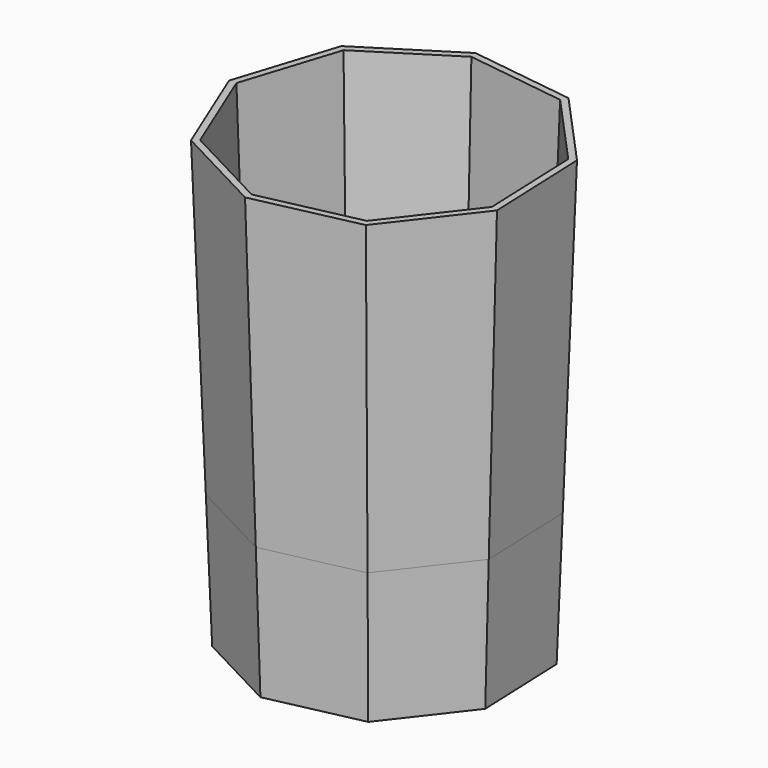
from build123d import *

# Parameters (mm, degrees)
F1_DEPTH = 70
F1_TAPER = -2
F2_T     = -1.5
F3_R     = 14
F4_DEPTH = 1.5
F5_DEPTH = 30
F5_TAPER = 2
F6_T     = -1.5
F8_D     = 4.2
F8_DEPTH = 17.25
F8_TIP   = 1.2618073


with BuildPart() as f1:
    # F0 (on Top) → F1 (new body)
    with BuildSketch(Plane.XY):
        Polygon((17.0480676249, -26.9924116845), (30.4099652563, -9.7191003389), (29.5427021752, 12.101886071), (14.8520804157, 28.2602654909), (-6.7879948327, 31.1953526096), (-25.2518918588, 19.5337875446), (-31.9001480406, -1.2678538064), (-23.6219704236, -21.4762522707), (-4.2908103164, -31.6356736157), align=None)
    extrude(amount=F1_DEPTH, taper=F1_TAPER)

    # F2
    f2_openings = [f1.faces().sort_by_distance(p)[0] for p in [
        (0, 0, 70),
    ]]
    offset(amount=F2_T, openings=f2_openings)

    # F3 (on face) → F4 (cut, through all)
    with BuildSketch(Plane(origin=(0, 0, 0), x_dir=(1, 0, 0), z_dir=(0, 0, -1))):
        Circle(F3_R)
    extrude(amount=-F4_DEPTH, mode=Mode.SUBTRACT)


with BuildPart() as f5:
    # F0 (on Top) → F5 (new body)
    with BuildSketch(Plane.XY):
        Polygon((17.0480676249, -26.9924116845), (30.4099652563, -9.7191003389), (29.5427021752, 12.101886071), (14.8520804157, 28.2602654909), (-6.7879948327, 31.1953526096), (-25.2518918588, 19.5337875446), (-31.9001480406, -1.2678538064), (-23.6219704236, -21.4762522707), (-4.2908103164, -31.6356736157), align=None)
    extrude(amount=-F5_DEPTH, taper=F5_TAPER)

    # F6
    f6_openings = [f5.faces().sort_by_distance(p)[0] for p in [
        (0, 0, 0),
    ]]
    offset(amount=F6_T, openings=f6_openings)

    # F8
    with Locations(Plane(origin=(0, 0, -30), x_dir=(1, 0, 0), z_dir=(0, 0, -1))):
        with Locations((0, 0)):
            Hole(F8_D / 2, depth=F8_DEPTH)
            with Locations((0, 0, -(F8_DEPTH + F8_TIP / 2))):  # 118° drill point
                Cone(0, F8_D / 2, F8_TIP, mode=Mode.SUBTRACT)


solid = Compound([f1.part, f5.part])
